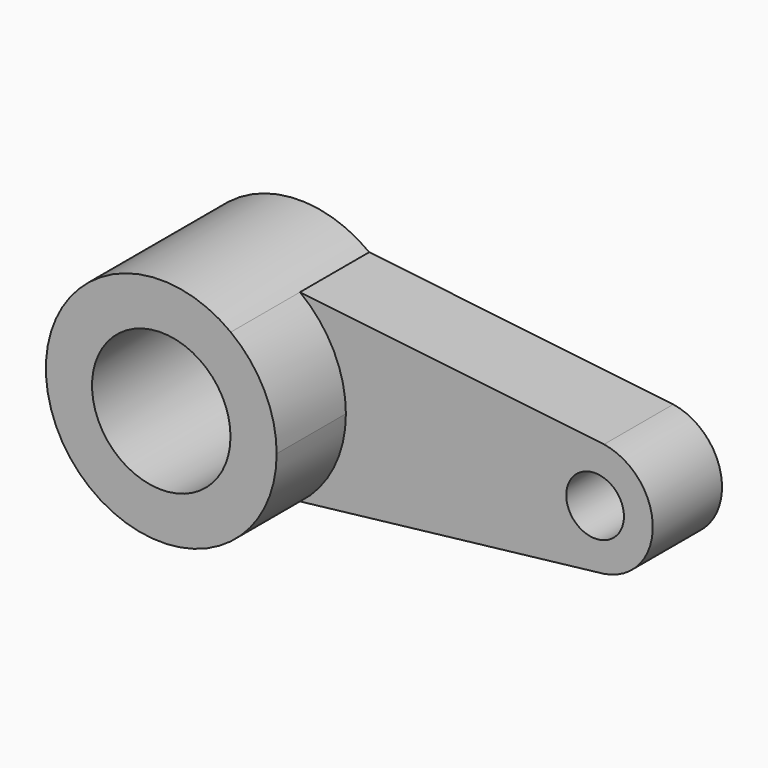
from build123d import *

# Parameters (mm, degrees)
F0_R     = 5
F1_DEPTH = 15
F0_R_2   = 12
F2_DEPTH = 30


with BuildPart() as f1:
    # F0 (on Front) → F1 (new body)
    with BuildSketch(Plane.XZ):
        with BuildLine():
            ThreePointArc((12.044726, 15.966358), (17.901041, 8.919234), (20, 0))
            ThreePointArc((20, 0), (17.901041, -8.919234), (12.044726, -15.966358))
            Line((12.044726, -15.966358), (64.737626, -9.88001))
            ThreePointArc((64.737626, -9.88001), (73.193151, 0), (64.737626, 9.88001))
            Line((64.737626, 9.88001), (12.044726, 15.966358))
        make_face()
        with Locations((63.193151, 0)):
            Circle(F0_R, mode=Mode.SUBTRACT)
    extrude(amount=F1_DEPTH)

    # F0 (on Front) → F2 (join)
    with BuildSketch(Plane.XZ):
        with BuildLine():
            ThreePointArc((12.044726, -15.966358), (17.901041, -8.919234), (20, 0))
            ThreePointArc((20, 0), (17.901041, 8.919234), (12.044726, 15.966358))
            ThreePointArc((12.044726, 15.966358), (-20, 0), (12.044726, -15.966358))
        make_face()
        Circle(F0_R_2, mode=Mode.SUBTRACT)
    extrude(amount=F2_DEPTH)


solid = f1.part
